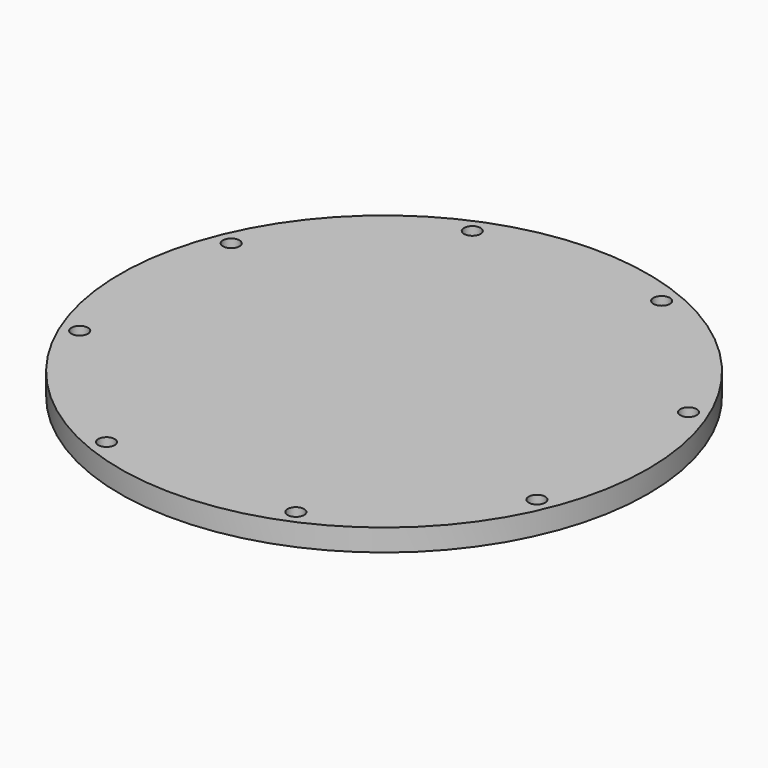
from build123d import *

# Parameters (mm, degrees)
F0_R     = 152.4
F0_R_2   = 4.7625
F1_DEPTH = 12.7


with BuildPart() as f1:
    # F0 (on Top) → F1 (new body)
    with BuildSketch(Plane.XY):
        Circle(F0_R)
        with Locations((-54.675895, -131.999288)):
            Circle(F0_R_2, mode=Mode.SUBTRACT)
        with Locations((-131.999288, -54.675895)):
            Circle(F0_R_2, mode=Mode.SUBTRACT)
        with Locations((54.675895, -131.999288)):
            Circle(F0_R_2, mode=Mode.SUBTRACT)
        with Locations((131.999288, -54.675895)):
            Circle(F0_R_2, mode=Mode.SUBTRACT)
        with Locations((-131.999288, 54.675895)):
            Circle(F0_R_2, mode=Mode.SUBTRACT)
        with Locations((-54.675895, 131.999288)):
            Circle(F0_R_2, mode=Mode.SUBTRACT)
        with Locations((131.999288, 54.675895)):
            Circle(F0_R_2, mode=Mode.SUBTRACT)
        with Locations((54.675895, 131.999288)):
            Circle(F0_R_2, mode=Mode.SUBTRACT)
    extrude(amount=F1_DEPTH)


solid = f1.part
